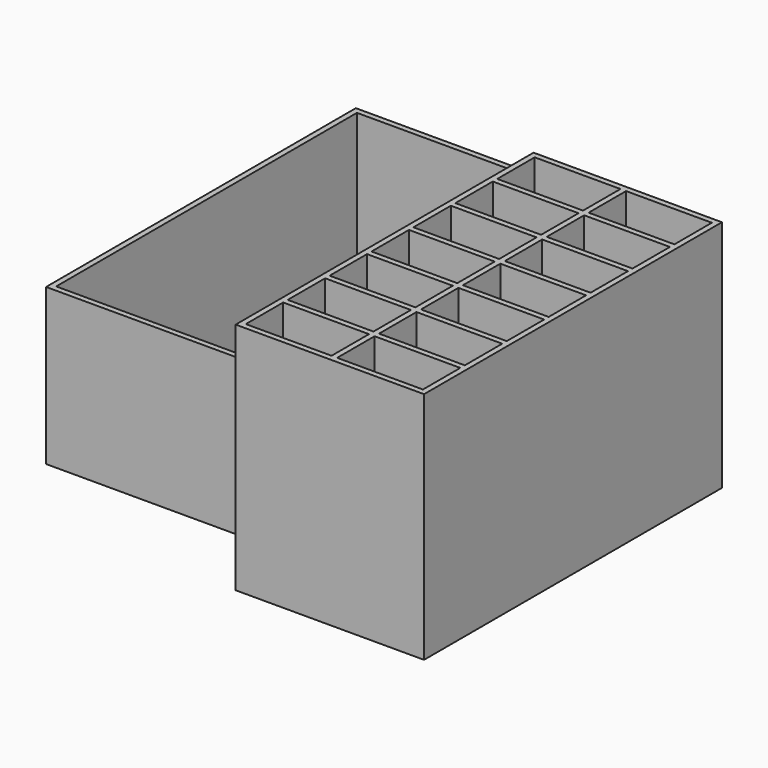
from build123d import *

# Parameters (mm, degrees)
F0_W     = 48.32
F0_H     = 95.52
F0_W_2   = 22
F0_H_2   = 12
F1_DEPTH = 1.8
F2_DEPTH = 60
F3_W     = 52.2
F3_H     = 99.32
F3_W_2   = 49.32
F3_H_2   = 96.44
F4_DEPTH = 1.8
F5_DEPTH = 40


with BuildPart() as f1:
    # F0 (on Top) → F1 (new body)
    with BuildSketch(Plane.XY):
        with Locations((-7.9342950767, 11.4956763754)):
            Rectangle(F0_W, F0_H)
        with Locations((-19.6542950767, -28.8243236246)):
            Rectangle(F0_W_2, F0_H_2, mode=Mode.SUBTRACT)
        with Locations((-19.6542950767, -15.3843236246)):
            Rectangle(F0_W_2, F0_H_2, mode=Mode.SUBTRACT)
        with Locations((-19.6542950767, -1.9443236246)):
            Rectangle(F0_W_2, F0_H_2, mode=Mode.SUBTRACT)
        with Locations((-19.6542950767, 11.4956763754)):
            Rectangle(F0_W_2, F0_H_2, mode=Mode.SUBTRACT)
        with Locations((3.7857049233, -28.8243236246)):
            Rectangle(F0_W_2, F0_H_2, mode=Mode.SUBTRACT)
        with Locations((3.7857049233, -15.3843236246)):
            Rectangle(F0_W_2, F0_H_2, mode=Mode.SUBTRACT)
        with Locations((3.7857049233, -1.9443236246)):
            Rectangle(F0_W_2, F0_H_2, mode=Mode.SUBTRACT)
        with Locations((-19.6542950767, 24.9356763754)):
            Rectangle(F0_W_2, F0_H_2, mode=Mode.SUBTRACT)
        with Locations((-19.6542950767, 38.3756763754)):
            Rectangle(F0_W_2, F0_H_2, mode=Mode.SUBTRACT)
        with Locations((-19.6542950767, 51.8156763754)):
            Rectangle(F0_W_2, F0_H_2, mode=Mode.SUBTRACT)
        with Locations((3.7857049233, 11.4956763754)):
            Rectangle(F0_W_2, F0_H_2, mode=Mode.SUBTRACT)
        with Locations((3.7857049233, 24.9356763754)):
            Rectangle(F0_W_2, F0_H_2, mode=Mode.SUBTRACT)
        with Locations((3.7857049233, 38.3756763754)):
            Rectangle(F0_W_2, F0_H_2, mode=Mode.SUBTRACT)
        with Locations((3.7857049233, 51.8156763754)):
            Rectangle(F0_W_2, F0_H_2, mode=Mode.SUBTRACT)
        with Locations((-19.6542950767, 51.8156763754)):
            Rectangle(F0_W_2, F0_H_2)
        with Locations((-19.6542950767, 24.9356763754)):
            Rectangle(F0_W_2, F0_H_2)
        with Locations((3.7857049233, -1.9443236246)):
            Rectangle(F0_W_2, F0_H_2)
        with Locations((3.7857049233, -15.3843236246)):
            Rectangle(F0_W_2, F0_H_2)
        with Locations((3.7857049233, 11.4956763754)):
            Rectangle(F0_W_2, F0_H_2)
        with Locations((-19.6542950767, -15.3843236246)):
            Rectangle(F0_W_2, F0_H_2)
        with Locations((3.7857049233, 38.3756763754)):
            Rectangle(F0_W_2, F0_H_2)
        with Locations((-19.6542950767, -1.9443236246)):
            Rectangle(F0_W_2, F0_H_2)
        with Locations((-19.6542950767, 11.4956763754)):
            Rectangle(F0_W_2, F0_H_2)
        with Locations((3.7857049233, -28.8243236246)):
            Rectangle(F0_W_2, F0_H_2)
        with Locations((-19.6542950767, -28.8243236246)):
            Rectangle(F0_W_2, F0_H_2)
        with Locations((3.7857049233, 51.8156763754)):
            Rectangle(F0_W_2, F0_H_2)
        with Locations((-19.6542950767, 38.3756763754)):
            Rectangle(F0_W_2, F0_H_2)
        with Locations((3.7857049233, 24.9356763754)):
            Rectangle(F0_W_2, F0_H_2)
    extrude(amount=F1_DEPTH)

    # F0 (on Top) → F2 (join)
    with BuildSketch(Plane.XY):
        with Locations((-7.9342950767, 11.4956763754)):
            Rectangle(F0_W, F0_H)
        with Locations((-19.6542950767, -28.8243236246)):
            Rectangle(F0_W_2, F0_H_2, mode=Mode.SUBTRACT)
        with Locations((-19.6542950767, -15.3843236246)):
            Rectangle(F0_W_2, F0_H_2, mode=Mode.SUBTRACT)
        with Locations((-19.6542950767, -1.9443236246)):
            Rectangle(F0_W_2, F0_H_2, mode=Mode.SUBTRACT)
        with Locations((-19.6542950767, 11.4956763754)):
            Rectangle(F0_W_2, F0_H_2, mode=Mode.SUBTRACT)
        with Locations((3.7857049233, -28.8243236246)):
            Rectangle(F0_W_2, F0_H_2, mode=Mode.SUBTRACT)
        with Locations((3.7857049233, -15.3843236246)):
            Rectangle(F0_W_2, F0_H_2, mode=Mode.SUBTRACT)
        with Locations((3.7857049233, -1.9443236246)):
            Rectangle(F0_W_2, F0_H_2, mode=Mode.SUBTRACT)
        with Locations((-19.6542950767, 24.9356763754)):
            Rectangle(F0_W_2, F0_H_2, mode=Mode.SUBTRACT)
        with Locations((-19.6542950767, 38.3756763754)):
            Rectangle(F0_W_2, F0_H_2, mode=Mode.SUBTRACT)
        with Locations((-19.6542950767, 51.8156763754)):
            Rectangle(F0_W_2, F0_H_2, mode=Mode.SUBTRACT)
        with Locations((3.7857049233, 11.4956763754)):
            Rectangle(F0_W_2, F0_H_2, mode=Mode.SUBTRACT)
        with Locations((3.7857049233, 24.9356763754)):
            Rectangle(F0_W_2, F0_H_2, mode=Mode.SUBTRACT)
        with Locations((3.7857049233, 38.3756763754)):
            Rectangle(F0_W_2, F0_H_2, mode=Mode.SUBTRACT)
        with Locations((3.7857049233, 51.8156763754)):
            Rectangle(F0_W_2, F0_H_2, mode=Mode.SUBTRACT)
    extrude(amount=F2_DEPTH)


with BuildPart() as f4:
    # F3 (on Top) → F4 (new body)
    with BuildSketch(Plane.XY):
        with Locations((-69.8553323746, 32.4284926394)):
            Rectangle(F3_W, F3_H)
        with Locations((-69.8553323746, 32.4284926394)):
            Rectangle(F3_W_2, F3_H_2, mode=Mode.SUBTRACT)
        with Locations((-69.8553323746, 32.4284926394)):
            Rectangle(F3_W_2, F3_H_2)
    extrude(amount=F4_DEPTH)

    # F3 (on Top) → F5 (join)
    with BuildSketch(Plane.XY):
        with Locations((-69.8553323746, 32.4284926394)):
            Rectangle(F3_W, F3_H)
        with Locations((-69.8553323746, 32.4284926394)):
            Rectangle(F3_W_2, F3_H_2, mode=Mode.SUBTRACT)
    extrude(amount=F5_DEPTH)


solid = Compound([f1.part, f4.part])
